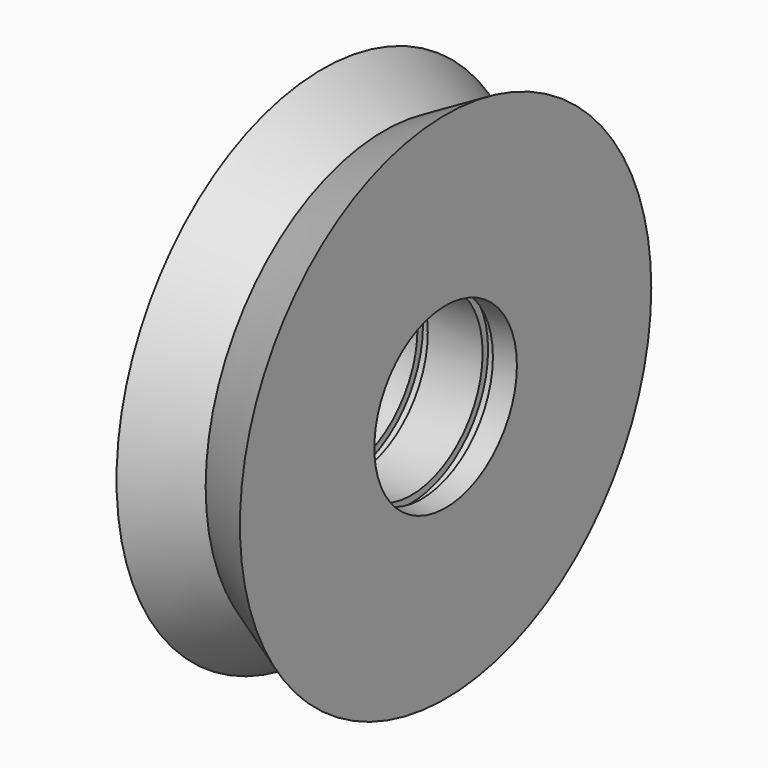
from build123d import *

# Parameters (mm, degrees)
F2_W = 1.5
F2_H = 1


with BuildPart() as f1:
    # F0 (on Top) → F1 (revolve)
    with BuildSketch(Plane.XY):
        Polygon((-9, 37.5), (-9, 13), (9, 13), (9, 37.5), (0, 32.5), align=None)
    revolve(axis=Axis((3.716217, 0, 0), (1, 0, 0)))

    # F2 (on Top) → F3 (revolve, cut)
    with BuildSketch(Plane.XY):
        with Locations((-4.75, 13.5)):
            Rectangle(F2_W, F2_H)
        with Locations((4.75, 13.5)):
            Rectangle(F2_W, F2_H)
    revolve(axis=Axis((3.716217, 0, 0), (1, 0, 0)), mode=Mode.SUBTRACT)


solid = f1.part
